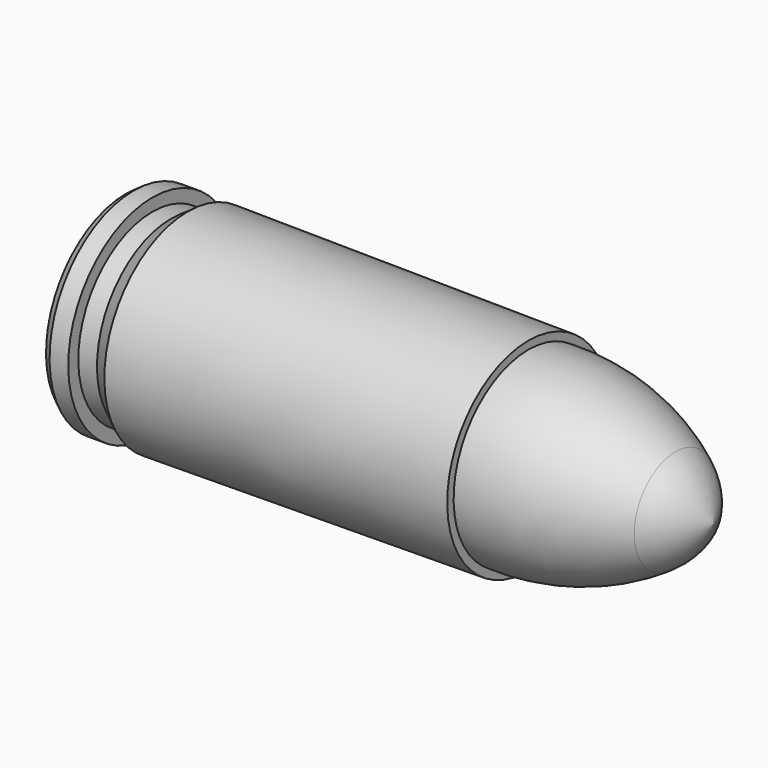
from build123d import *


with BuildPart() as f1:
    # F0 (on Front) → F1 (revolve)
    with BuildSketch(Plane.XZ):
        with BuildLine():
            Line((0, 4.737021), (0, 0))
            Line((0, 0), (27.94, 0))
            ThreePointArc((27.94, 0), (27.254253, 1.378937), (26.139495, 2.441496))
            ThreePointArc((26.139495, 2.441496), (22.802874, 3.991977), (19.1516, 4.445))
            Line((19.1516, 4.445), (19.1516, 4.826))
            Line((19.1516, 4.826), (2.957049, 4.9657))
            Line((2.957049, 4.9657), (2.159, 4.4069))
            Line((2.159, 4.4069), (1.27, 4.4069))
            Line((1.27, 4.4069), (1.27, 5.0038))
            Line((1.27, 5.0038), (0.381, 5.0038))
            Line((0.381, 5.0038), (0, 4.737021))
        make_face()
    revolve(axis=Axis((19.091603, 0, 0), (1, 0, 0)))


solid = f1.part
